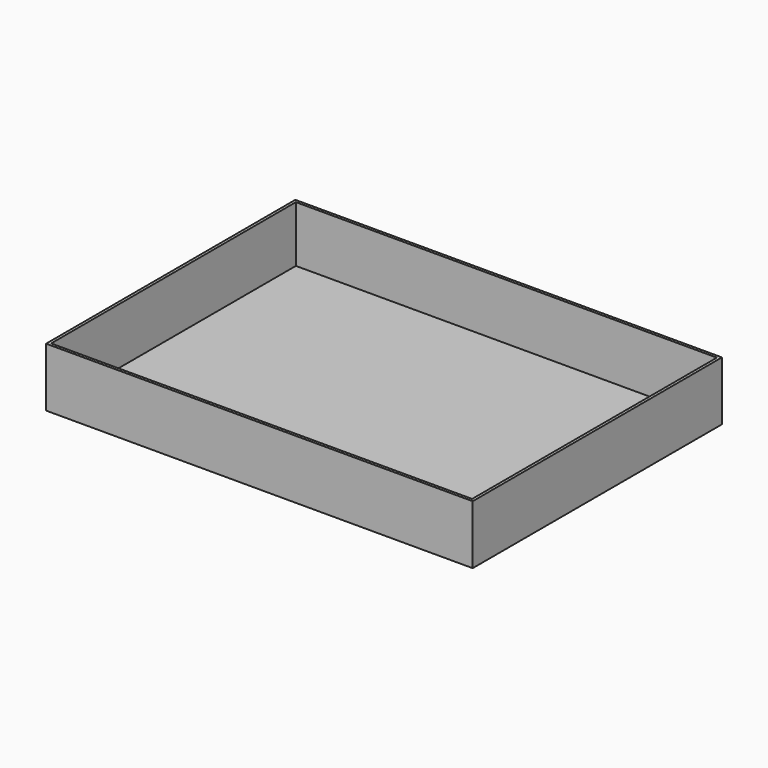
from build123d import *

# Parameters (mm, degrees)
F0_W     = 750
F0_H     = 545
F1_DEPTH = 5
F0_W_2   = 759.999995
F0_H_2   = 555
F2_DEPTH = 105


with BuildPart() as f1:
    # F0 (on Top) → F1 (new body)
    with BuildSketch(Plane.XY):
        with Locations((0, 2.5)):
            Rectangle(F0_W, F0_H)
    extrude(amount=F1_DEPTH)

    # F0 (on Top) → F2 (join)
    with BuildSketch(Plane.XY):
        with Locations((3e-06, 2.5)):
            Rectangle(F0_W_2, F0_H_2)
        with Locations((0, 2.5)):
            Rectangle(F0_W, F0_H, mode=Mode.SUBTRACT)
    extrude(amount=F2_DEPTH)


solid = f1.part
